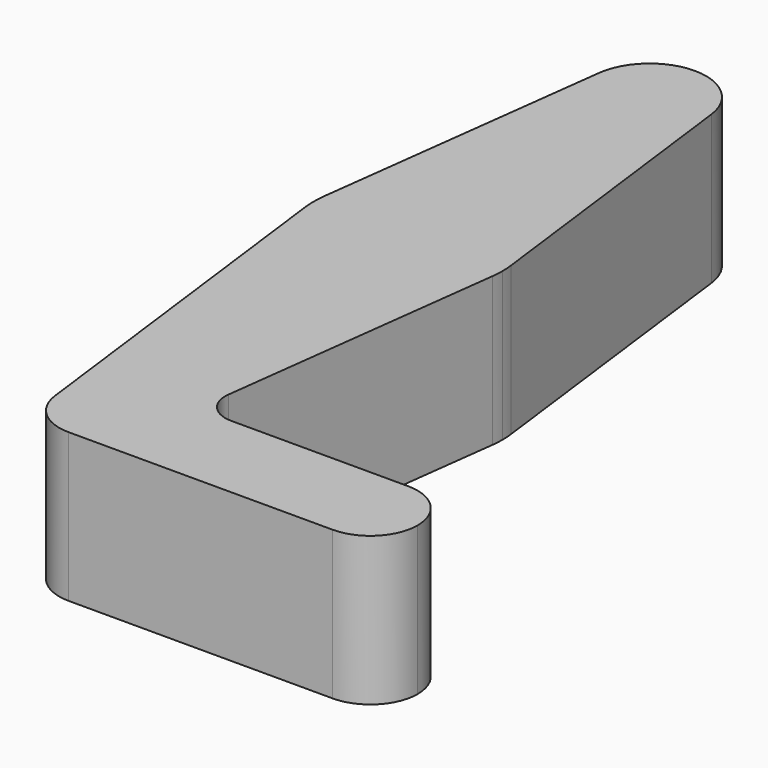
from build123d import *

# Parameters (mm, degrees)
F1_DEPTH = 25


with BuildPart() as f1:
    # F0 (on Top) → F1 (new body)
    with BuildSketch(Plane.XY):
        with BuildLine():
            ThreePointArc((0, -7.9375), (5.6126600757, -5.6126600757), (7.9375, 0))
            ThreePointArc((7.9375, 0), (-0.4970693683, 7.9219207452), (-7.8752441368, -0.9921875))
            ThreePointArc((-7.8752441368, -0.9921875), (-5.2501627579, -5.953125), (0, -7.9375))
        make_face()
        with BuildLine():
            ThreePointArc((44.45, 7.9375), (36.5125, 0), (44.45, -7.9375))
            ThreePointArc((44.45, -7.9375), (50.0626600757, -5.6126600757), (52.3875, 0))
            ThreePointArc((52.3875, 0), (50.0626600757, 5.6126600757), (44.45, 7.9375))
        make_face()
        with BuildLine():
            ThreePointArc((-15.7504882737, 65.484375), (-15.875, 63.5), (-15.7504882737, 61.515625))
            ThreePointArc((-15.7504882737, 61.515625), (0, 47.625), (15.7504882737, 61.515625))
            ThreePointArc((15.7504882737, 61.515625), (15.8438414904, 62.5058612634), (15.875, 63.5))
            ThreePointArc((15.875, 63.5), (15.8438414904, 64.4941387366), (15.7504882737, 65.484375))
            ThreePointArc((15.7504882737, 65.484375), (0, 79.375), (-15.7504882737, 65.484375))
        make_face()
        with BuildLine():
            ThreePointArc((-7.8752441368, -0.9921875), (-0.4970693683, 7.9219207452), (7.9375, 0))
            ThreePointArc((7.9375, 0), (5.6126600757, -5.6126600757), (0, -7.9375))
            Line((0, -7.9375), (44.45, -7.9375))
            ThreePointArc((44.45, -7.9375), (36.5125, 0), (44.45, 7.9375))
            Line((44.45, 7.9375), (14.6697461087, 7.9375))
            ThreePointArc((14.6697461087, 7.9375), (10.9197461087, 9.6303108612), (9.7089624004, 13.5625))
            Line((9.7089624004, 13.5625), (15.7504882737, 61.515625))
            ThreePointArc((15.7504882737, 61.515625), (0, 47.625), (-15.7504882737, 61.515625))
            Line((-15.7504882737, 61.515625), (-7.8752441368, -0.9921875))
        make_face()
        with BuildLine():
            Line((-9.4502929642, 115.490625), (-15.7504882737, 65.484375))
            ThreePointArc((-15.7504882737, 65.484375), (0, 79.375), (15.7504882737, 65.484375))
            Line((15.7504882737, 65.484375), (9.4502929642, 115.490625))
            ThreePointArc((9.4502929642, 115.490625), (9.5063048942, 114.896483242), (9.525, 114.3))
            ThreePointArc((9.525, 114.3), (-0.596483242, 104.7936951058), (-9.4502929642, 115.490625))
        make_face()
        with BuildLine():
            ThreePointArc((9.4502929642, 115.490625), (0, 123.825), (-9.4502929642, 115.490625))
            ThreePointArc((-9.4502929642, 115.490625), (-0.596483242, 104.7936951058), (9.525, 114.3))
            ThreePointArc((9.525, 114.3), (9.5063048942, 114.896483242), (9.4502929642, 115.490625))
        make_face()
    extrude(amount=F1_DEPTH)


solid = f1.part
